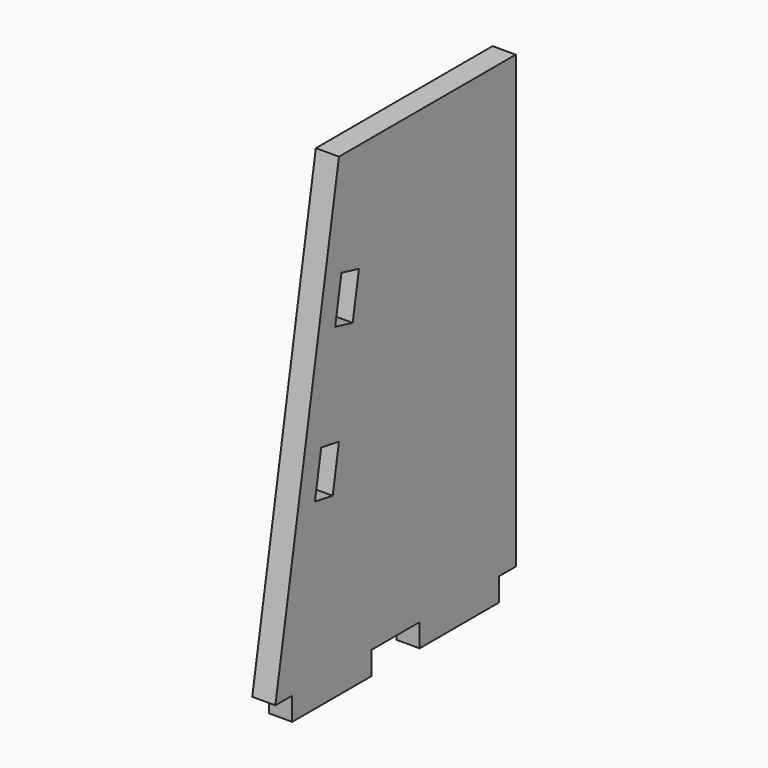
from build123d import *

# Parameters (mm, degrees)
F0_W     = 83.82
F0_H     = 19.558
F1_DEPTH = 19.558


with BuildPart() as f1:
    # F0 (on Right) → F1 (new body)
    with BuildSketch(Plane.YZ):
        Polygon((-17.953301, 168.605641), (-85.133881, -212.394359), (-67.353881, -212.394359), (-17.953301, -212.394359), (16.466119, -212.394359), (67.266119, -212.394359), (151.086119, -212.394359), (168.866119, -212.394359), (168.866119, 168.605641), align=None)
        Polygon((-24.569297, -81.011051), (-43.329885, -77.703053), (-36.713889, -40.181878), (-17.953301, -43.489876), align=None, mode=Mode.SUBTRACT)
        Polygon((-17.953301, 42.653541), (-21.934162, 43.638122), (-15.318166, 81.159297), (3.174614, 76.585504), (-3.441382, 39.064328), align=None, mode=Mode.SUBTRACT)
        Polygon((-17.953301, 168.605641), (-85.133881, -212.394359), (-67.353881, -212.394359), (-17.953301, -212.394359), (16.466119, -212.394359), (67.266119, -212.394359), (151.086119, -212.394359), (168.866119, -212.394359), (168.866119, 168.605641), align=None)
        Polygon((-24.569297, -81.011051), (-43.329885, -77.703053), (-36.713889, -40.181878), (-17.953301, -43.489876), align=None, mode=Mode.SUBTRACT)
        Polygon((-17.953301, 42.653541), (-21.934162, 43.638122), (-15.318166, 81.159297), (3.174614, 76.585504), (-3.441382, 39.064328), align=None, mode=Mode.SUBTRACT)
        Polygon((-17.953301, -212.394359), (-67.353881, -212.394359), (-67.353881, -231.952359), (16.466119, -231.952359), (16.466119, -212.394359), align=None)
        with Locations((109.176119, -222.173359)):
            Rectangle(F0_W, F0_H)
    extrude(amount=F1_DEPTH)


solid = f1.part
